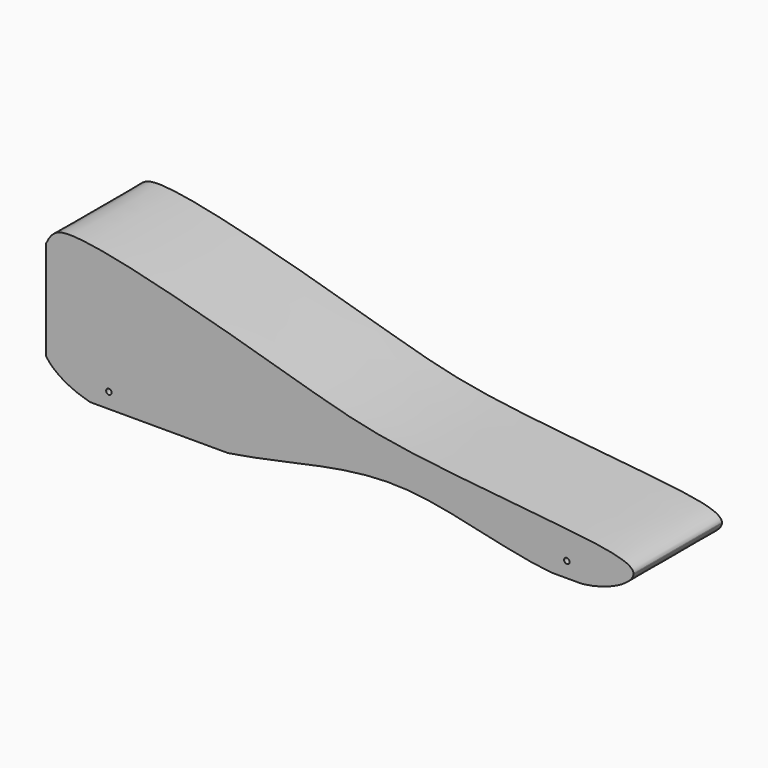
from build123d import *

# Parameters (mm, degrees)
F1_DEPTH = 40.64
F2_R     = 10.033
F3_DEPTH = 54.864
F5_DEPTH = 50.8
F6_R     = 1.0033
F7_DEPTH = 50.8


with BuildPart() as f1:
    # F0 (on Front) → F1 (new body)
    with BuildSketch(Plane.XZ):
        Polygon((0, 63.5), (0, 0), (215.9, 0), (215.9, 19.05), align=None)
    extrude(amount=-F1_DEPTH)

    # F2 (on face) → F3 (cut)
    with BuildSketch(Plane(origin=(0, 0, 0), x_dir=(0, -1, 0), z_dir=(-1, 0, 0))):
        with Locations((-20.6156443834, 26.4044162248)):
            Circle(F2_R)
    extrude(amount=-F3_DEPTH, mode=Mode.SUBTRACT)

    # F4 (on face) → F5 (cut)
    with BuildSketch(Plane.XZ):
        with BuildLine():
            add(Edge.make_bspline(
                [(16.1319528243, 0), (9.1103746855, 1.8526189253), (3.4054441774, 4.8924667394), (0, 9.525)],
                knots=[0.8687756732, 0.8687756732, 0.8687756732, 0.8687756732, 0.9094257938, 0.9094257938, 0.9094257938, 0.9094257938], degree=3))
            Line((0, 9.525), (0, 0))
            Line((0, 0), (16.1319528243, 0))
        make_face()
        with BuildLine():
            Line((0, 63.5), (0, 46.10100016))
            add(Edge.make_bspline(
                [(0, 46.10100016), (2.0657878411, 50.5105752313), (9.5757047951, 55.3901111014), (91.02955709, 32.210039913), (124.9015451965, 21.7663856992), (189.2954565971, 16.6427769383), (215.6624128237, 12.9001936662), (215.9, 9.525)],
                knots=[0, 0, 0, 0, 0.0497683362, 0.1827614083, 0.2811784463, 0.4030285545, 0.4745413014, 0.4745413014, 0.4745413014, 0.4745413014], degree=3))
            Line((215.9, 9.525), (215.9, 19.05))
            Line((215.9, 19.05), (0, 63.5))
        make_face()
        with BuildLine():
            add(Edge.make_bspline(
                [(185.8713920601, 0), (169.3137245185, 1.4601725501), (125.8688018117, 16.8068740981), (91.8671082983, 3.8858105541), (66.9290050864, 0)],
                knots=[0.5664130579, 0.5664130579, 0.5664130579, 0.5664130579, 0.6644164746, 0.7862882052, 0.7862882052, 0.7862882052, 0.7862882052], degree=3))
            Line((66.9290050864, 0), (185.8713920601, 0))
        make_face()
        with BuildLine():
            Line((215.9, 0), (215.9, 9.2667335943))
            add(Edge.make_bspline(
                [(215.9, 9.2667335943), (215.678486687, 6.0080477852), (207.2434450535, 1.1378088917), (196.9770044088, 0)],
                knots=[0.4763393845, 0.4763393845, 0.4763393845, 0.4763393845, 0.543473312, 0.543473312, 0.543473312, 0.543473312], degree=3))
            Line((196.9770044089, 0), (215.9, 0))
        make_face()
    extrude(amount=-F5_DEPTH, mode=Mode.SUBTRACT)

    # F6 (on face) → F7 (cut)
    with BuildSketch(Plane.XZ):
        with Locations((23.0912622064, 5.5970656686)):
            Circle(F6_R)
        with Locations((191.4213299751, 5.5970656686)):
            Circle(F6_R)
    extrude(amount=-F7_DEPTH, mode=Mode.SUBTRACT)


solid = f1.part
